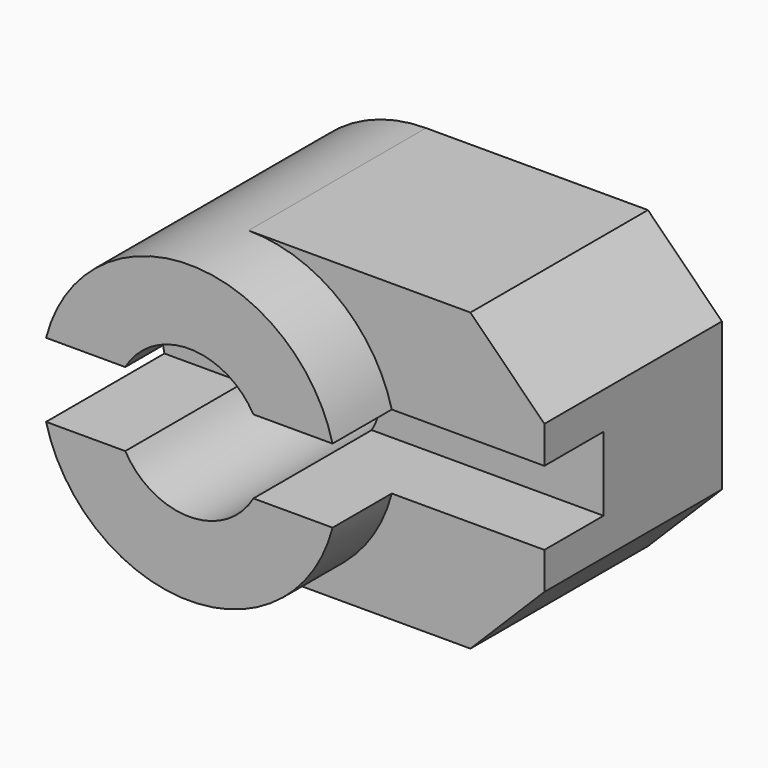
from build123d import *

# Parameters (mm, degrees)
F0_R     = 10
F0_R_2   = 5
F1_DEPTH = 20
F3_DEPTH = 15
F5_DEPTH = 10


with BuildPart() as f1:
    # F0 (on Front) → F1 (new body)
    with BuildSketch(Plane.XZ):
        Circle(F0_R)
        Circle(F0_R_2, mode=Mode.SUBTRACT)
    extrude(amount=F1_DEPTH)

    # F2 (on Front) → F3 (join)
    with BuildSketch(Plane.XZ):
        with BuildLine():
            ThreePointArc((0, 10), (10, 0), (0, -10))
            Line((0, -10), (15, -10))
            Line((15, -10), (20, -5))
            Line((20, -5), (20, 5))
            Line((20, 5), (15, 10))
            Line((15, 10), (0, 10))
        make_face()
    extrude(amount=F3_DEPTH)

    # F4 (on face) → F5 (cut)
    with BuildSketch(Plane.XZ.offset(20)):
        with BuildLine():
            ThreePointArc((4.3301270189, 2.5), (5, 0), (4.3301270189, -2.5))
            Line((4.3301270189, -2.5), (20, -2.5))
            Line((20, -2.5), (20, 2.5))
            Line((20, 2.5), (4.3301270189, 2.5))
        make_face()
        with BuildLine():
            Line((-9.6824583655, -2.5), (-4.3301270189, -2.5))
            ThreePointArc((-4.3301270189, -2.5), (-5, 0), (-4.3301270189, 2.5))
            Line((-4.3301270189, 2.5), (-9.6824583655, 2.5))
            ThreePointArc((-9.6824583655, 2.5), (-10, 0), (-9.6824583655, -2.5))
        make_face()
    extrude(amount=-F5_DEPTH, mode=Mode.SUBTRACT)


solid = f1.part
